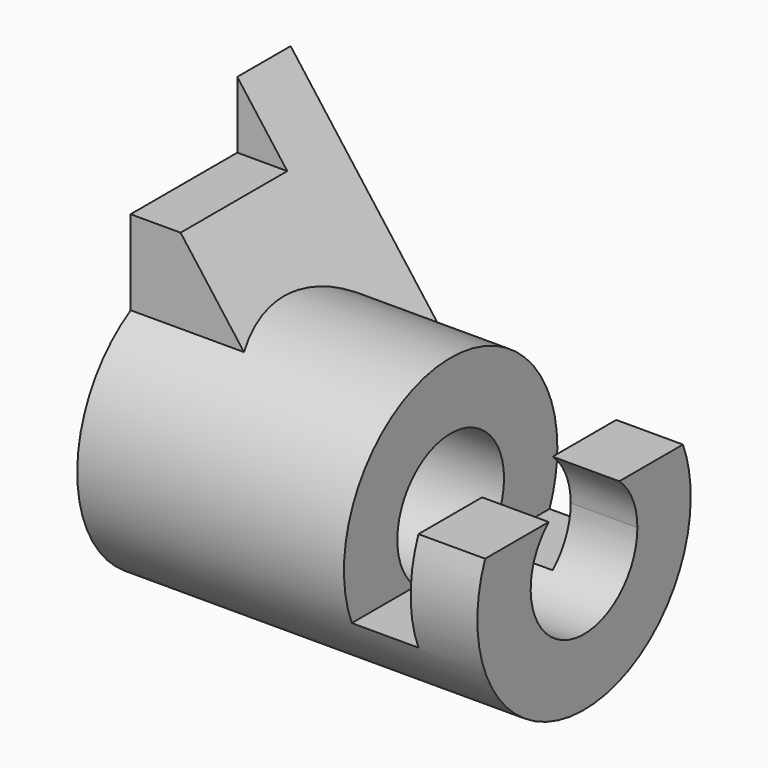
from build123d import *

# Parameters (mm, degrees)
F0_R          = 25.4
F0_R_2        = 12.7
F1_DEPTH      = 38.1
F3_DEPTH      = 12.7
F3_DEPTH_BACK = 25.4
F4_R          = 12.7
F5_DEPTH      = 38.101
F6_W          = 25.4
F6_H          = 12.7
F7_DEPTH      = 38.101
F9_DEPTH      = 25.401
F9_DEPTH_BACK = 25.401


with BuildPart() as f1:
    # F0 (on Right) → F1 (new body, symmetric)
    with BuildSketch(Plane.YZ):
        Circle(F0_R)
        Circle(F0_R_2, mode=Mode.SUBTRACT)
    extrude(amount=F1_DEPTH, both=True)

    # F2 (on Front) → F3 (join, two sides)
    with BuildSketch(Plane.XZ) as f3_sk:
        Polygon((0, 0), (-38.1, 50.8), (-38.1, 0), align=None)
    extrude(amount=F3_DEPTH)
    extrude(f3_sk.sketch, amount=-F3_DEPTH_BACK)

    # F4 (on Right) → F5 (cut, through all)
    with BuildSketch(Plane.YZ):
        Circle(F4_R)
    extrude(amount=-F5_DEPTH, mode=Mode.SUBTRACT)

    # F6 (on Right) → F7 (cut, through all)
    with BuildSketch(Plane.YZ):
        with Locations((0, 44.45)):
            Rectangle(F6_W, F6_H)
    extrude(amount=-F7_DEPTH, mode=Mode.SUBTRACT)

    # F8 (on Front) → F9 (cut, two sides)
    with BuildSketch(Plane.XZ) as f9_sk:
        Polygon((38.1, 25.4), (12.7, 25.4), (12.7, -9.525), (25.4, -9.525), (25.4, 9.525), (38.1, 9.525), align=None)
    extrude(amount=-F9_DEPTH, mode=Mode.SUBTRACT)
    extrude(f9_sk.sketch, amount=F9_DEPTH_BACK, mode=Mode.SUBTRACT)


solid = f1.part
